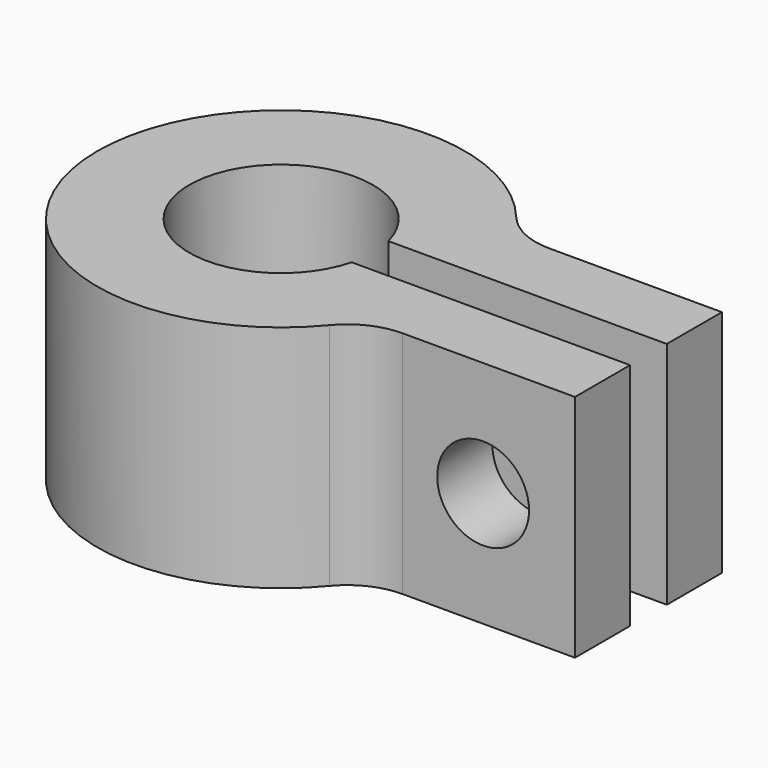
from build123d import *

# Parameters (mm, degrees)
F1_DEPTH = 10
F2_R     = 2
F3_DEPTH = 12.001


with BuildPart() as f1:
    # F0 (on Top) → F1 (new body)
    with BuildSketch(Plane.XY):
        with BuildLine():
            ThreePointArc((3.872983, -1), (-4, 0), (3.872983, 1))
            Line((3.872983, 1), (16, 1))
            Line((16, 1), (16, 4))
            Line((16, 4), (8.485281, 4))
            ThreePointArc((8.485281, 4), (7.206077, 4.286398), (6.171114, 5.090909))
            ThreePointArc((6.171114, 5.090909), (-8, 0), (6.171114, -5.090909))
            ThreePointArc((6.171114, -5.090909), (7.206077, -4.286398), (8.485281, -4))
            Line((8.485281, -4), (16, -4))
            Line((16, -4), (16, -1))
            Line((16, -1), (3.872983, -1))
        make_face()
    extrude(amount=F1_DEPTH)

    # F2 (on face) → F3 (cut, through all)
    with BuildSketch(Plane.XZ.offset(4)):
        with Locations((12, 5)):
            Circle(F2_R)
    extrude(amount=-F3_DEPTH, mode=Mode.SUBTRACT)


solid = f1.part
